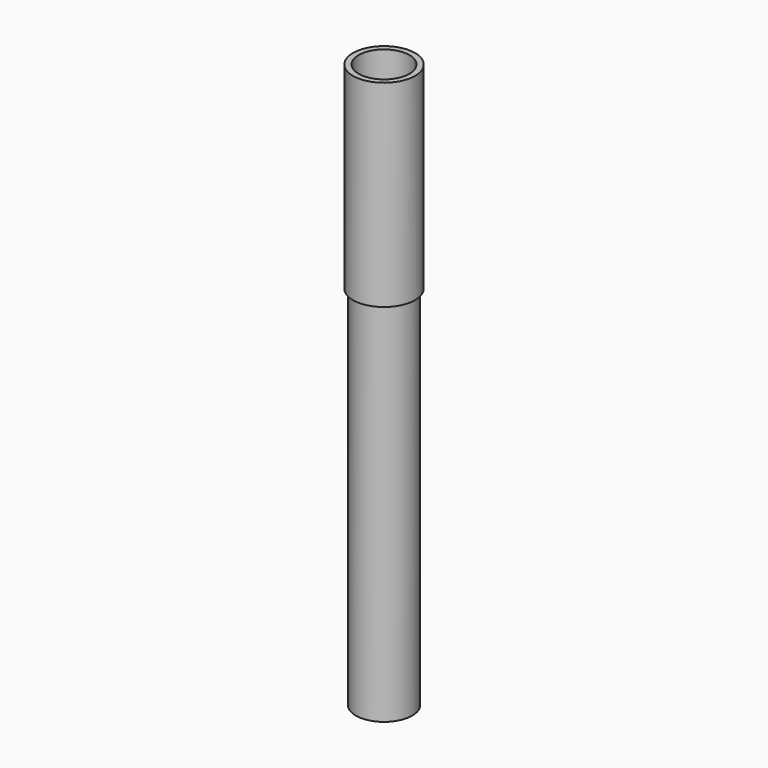
from build123d import *

# Parameters (mm, degrees)
F0_R     = 5
F1_DEPTH = 50
F3_R     = 4.5
F4_DEPTH = 100
F5_R     = 5.5
F5_R_2   = 5
F6_DEPTH = 35


with BuildPart() as f1:
    # F0 (on Top) → F1 (new body)
    with BuildSketch(Plane.XY):
        Circle(F0_R)
    extrude(amount=F1_DEPTH)

    # F2: F1 across face


with BuildPart() as f1_1:
    add(f1.part)
    add(f1.part.mirror(Plane(origin=(0, 0, 0), x_dir=(1, 0, 0), z_dir=(0, 0, -1))))

    # F3 (on face) → F4 (cut)
    with BuildSketch(Plane(origin=(0, 0, -50), x_dir=(1, 0, 0), z_dir=(0, 0, -1))):
        Circle(F3_R)
    extrude(amount=-F4_DEPTH, mode=Mode.SUBTRACT)

    # F5 (on face) → F6 (join)
    with BuildSketch(Plane.XY.offset(50)):
        Circle(F5_R)
        Circle(F5_R_2, mode=Mode.SUBTRACT)
    extrude(amount=-F6_DEPTH)


solid = f1_1.part
